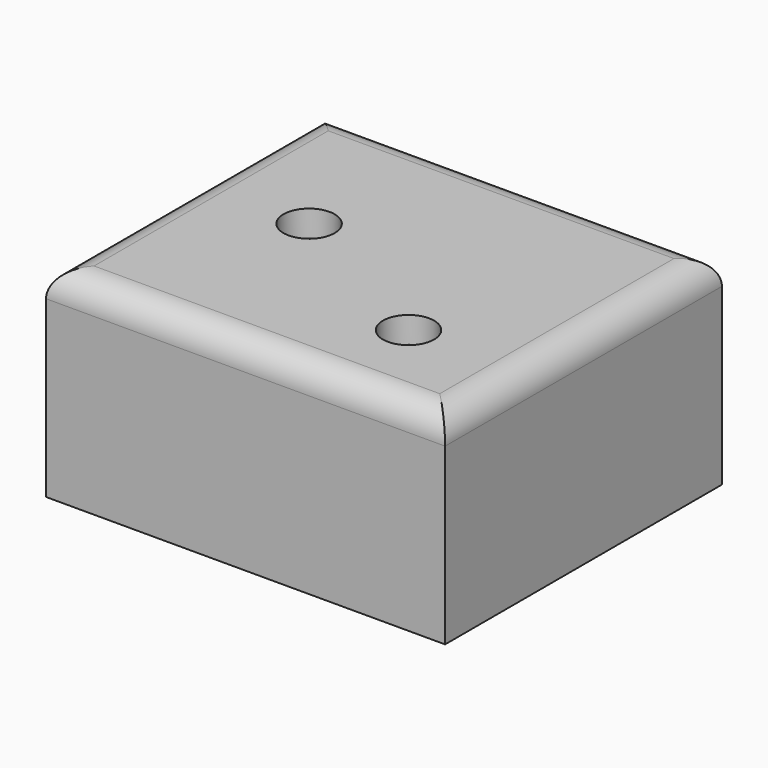
from build123d import *

# Parameters (mm, degrees)
F0_W           = 76.0650336742
F0_H           = 65.9612175077
F1_DEPTH       = 38.354
F2_R           = 5.08
F4_D           = 5.5
F4_CBORE_D     = 9.75
F4_CBORE_DEPTH = 5


with BuildPart() as f1:
    # F0 (on Top) → F1 (new body)
    with BuildSketch(Plane.XY):
        with Locations((2.9734522104, 3.0732313171)):
            Rectangle(F0_W, F0_H)
    extrude(amount=F1_DEPTH)

    # F2
    f2_edges = [f1.edges().sort_by_distance(p)[0] for p in [
        (2.973452, -29.907377, 38.354),
        (41.005969, 3.073231, 38.354),
        (2.973452, 36.05384, 38.354),
        (-35.059065, 3.073231, 38.354),
    ]]
    fillet(f2_edges, radius=F2_R)

    # F4 (through all)
    with Locations(Plane.XY.offset(38.354)):
        with Locations((-13.5124307126, 5.8261519298), (19.4780696183, -11.7112351581)):
            CounterBoreHole(F4_D / 2, F4_CBORE_D / 2, F4_CBORE_DEPTH)


solid = f1.part
